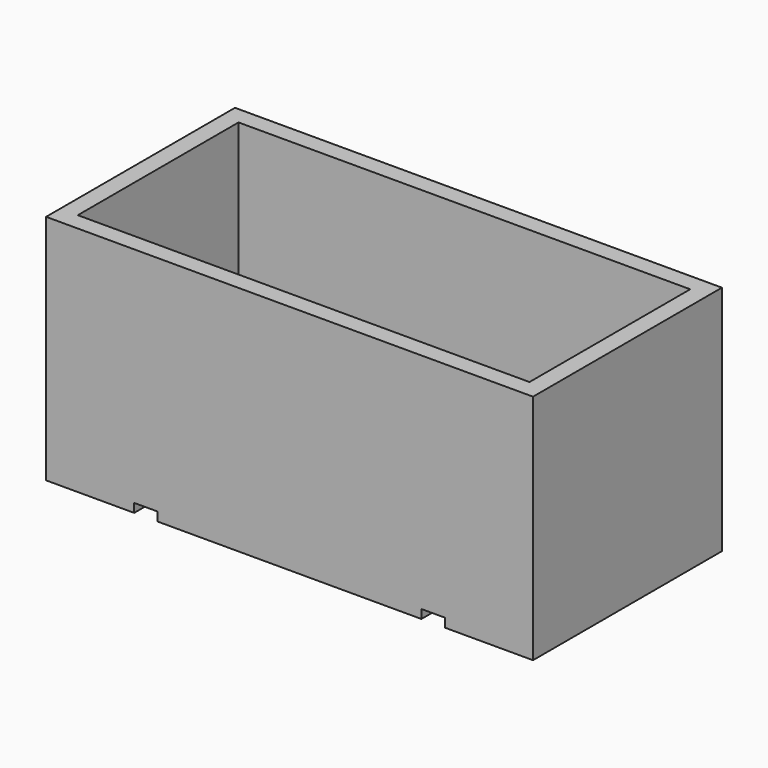
from build123d import *

# Parameters (mm, degrees)
SKETCH001_W      = 97.663
SKETCH001_H      = 43.434
PAD_DEPTH        = 3.81
SKETCH_W         = 105.283
SKETCH_H         = 51.054
SKETCH_W_2       = 97.663
SKETCH_H_2       = 43.434
PAD001_DEPTH     = 48.26
SKETCH003_W      = 19.05
SKETCH003_H      = 51.054
SKETCH003_W_2    = 57.023
PAD002_DEPTH     = 1.905
HOLE_D           = 4.064
HOLE_DEPTH       = 24.9936
HOLE_CSINK_D     = 7.62
HOLE_CSINK_ANGLE = 90


with BuildPart() as part:
    # Sketch001 → Pad (new body)
    with BuildSketch(Plane.XY):
        Rectangle(SKETCH001_W, SKETCH001_H)
    extrude(amount=PAD_DEPTH)

    # Sketch → Pad001 (join)
    with BuildSketch(Plane.XY):
        Rectangle(SKETCH_W, SKETCH_H)
        Rectangle(SKETCH_W_2, SKETCH_H_2, mode=Mode.SUBTRACT)
    extrude(amount=PAD001_DEPTH)

    # Sketch003 → Pad002 (join)
    with BuildSketch(Plane.XY):
        with Locations((-43.1165, 0)):
            Rectangle(SKETCH003_W, SKETCH003_H)
        with Locations((43.1165, 0)):
            Rectangle(SKETCH003_W, SKETCH003_H)
        Rectangle(SKETCH003_W_2, SKETCH003_H)
    extrude(amount=-PAD002_DEPTH)

    # Hole
    with Locations(Plane.XY.offset(3.81)):
        with Locations((41.2115, 14.097), (41.2115, -14.097), (-41.2115, -14.097), (-41.2115, 14.097)):
            CounterSinkHole(HOLE_D / 2, HOLE_CSINK_D / 2, depth=HOLE_DEPTH, counter_sink_angle=HOLE_CSINK_ANGLE)


solid = part.part
